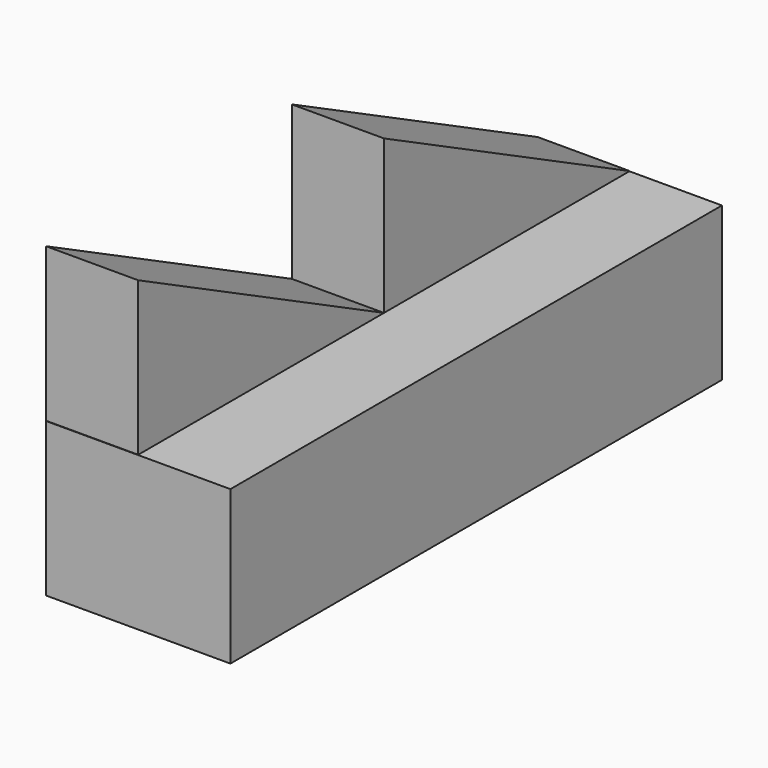
from build123d import *

# Parameters (mm, degrees)
F0_W     = 38.1
F0_H     = 31.75
F1_DEPTH = 127
F3_DEPTH = 19.05


with BuildPart() as f1:
    # F0 (on Front) → F1 (new body)
    with BuildSketch(Plane.XZ):
        Rectangle(F0_W, F0_H)
    extrude(amount=F1_DEPTH)


with BuildPart() as f3:
    # F2 (on Right) → F3 (new body)
    with BuildSketch(Plane.YZ):
        Polygon((-63.5, 15.93653), (0, 15.93653), (-63.5, 47.68653), align=None)
        Polygon((-127, 15.93653), (-63.5, 15.93653), (-127, 47.68653), align=None)
    extrude(amount=-F3_DEPTH)


solid = Compound([f1.part, f3.part])
